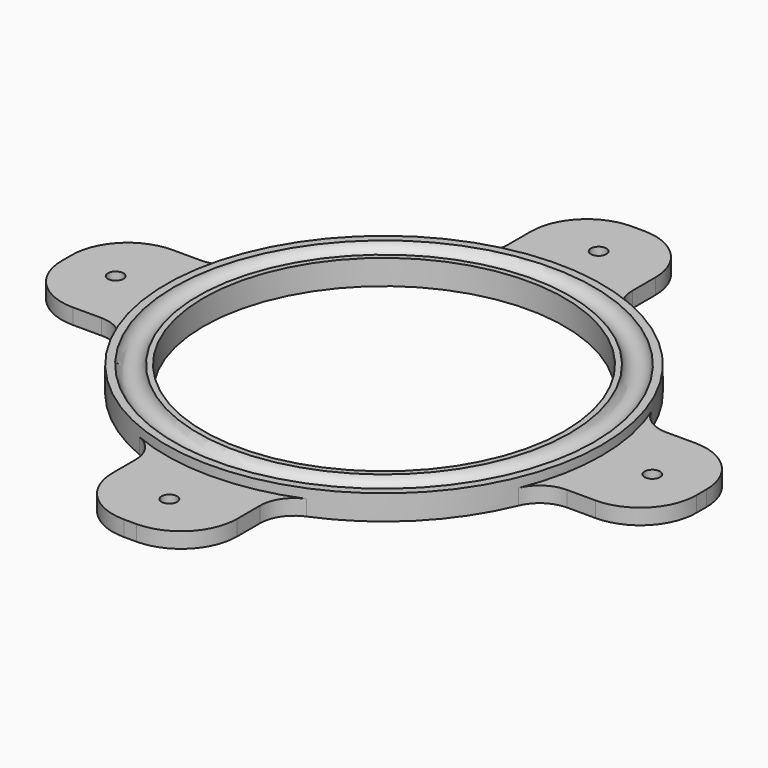
from build123d import *

# Parameters (mm, degrees)
SKETCH_R        = 70
SKETCH_R_2      = 57.25
PAD_DEPTH       = 15
SKETCH001_R     = 4
SKETCH002_W     = 40
SKETCH002_H     = 40
PAD001_DEPTH    = 5
SKETCH003_R     = 2.5
POCKET_DEPTH    = 5
FILLET_R        = 18
FILLET001_R     = 11
SKETCH004_R     = 58
POCKET001_DEPTH = 15.001
SKETCH005_R     = 71
POCKET002_DEPTH = 7
SKETCH006_R     = 4


with BuildPart() as part:
    # Sketch → Pad (new body)
    with BuildSketch(Plane.XY):
        Circle(SKETCH_R)
        Circle(SKETCH_R_2, mode=Mode.SUBTRACT)
    extrude(amount=PAD_DEPTH)

    # Sketch001 → Groove (revolve, cut)
    with BuildSketch(Plane.XZ):
        with Locations((63.625, 16)):
            Circle(SKETCH001_R)
    revolve(axis=Axis((0, 0, 0), (0, 0, 1)), mode=Mode.SUBTRACT)

    # Sketch002 (on Face2 of Groove) → Pad001 (join)
    with BuildSketch(Plane(origin=(0, 0, 0), x_dir=(1, 0, 0), z_dir=(0, 0, -1))):
        with Locations((82, 0)):
            Rectangle(SKETCH002_W, SKETCH002_H)
        with Locations((-82, 0)):
            Rectangle(SKETCH002_W, SKETCH002_H)
        with Locations((0, 82)):
            Rectangle(SKETCH002_W, SKETCH002_H)
        with Locations((0, -82)):
            Rectangle(SKETCH002_W, SKETCH002_H)
    extrude(amount=-PAD001_DEPTH)

    # Sketch003 (on Face13 of Pad001) → Pocket (cut)
    with BuildSketch(Plane.XY.offset(5)):
        with Locations((-86.25, 0)):
            Circle(SKETCH003_R)
        with Locations((0, -86.25)):
            Circle(SKETCH003_R)
        with Locations((86.25, 0)):
            Circle(SKETCH003_R)
        with Locations((0, 86.25)):
            Circle(SKETCH003_R)
    extrude(amount=-POCKET_DEPTH, mode=Mode.SUBTRACT)

    # Fillet
    fillet_edges = [part.edges().sort_by_distance(p)[0] for p in [
        (-20, 102, 2.5),
        (20, 102, 2.5),
        (102, 20, 2.5),
        (102, -20, 2.5),
        (20, -102, 2.5),
        (-20, -102, 2.5),
        (-102, -20, 2.5),
        (-102, 20, 2.5),
    ]]
    fillet(fillet_edges, radius=FILLET_R)

    # Fillet001
    fillet001_edges = [part.edges().sort_by_distance(p)[0] for p in [
        (67.082039, 20, 2.5),
        (20, 67.082039, 2.5),
        (-20, 67.082039, 2.5),
        (-67.082039, 20, 2.5),
        (-67.082039, -20, 2.5),
        (-20, -67.082039, 2.5),
        (20, -67.082039, 2.5),
        (67.082039, -20, 2.5),
    ]]
    fillet(fillet001_edges, radius=FILLET001_R)

    # Sketch004 (on Face41 of Fillet001) → Pocket001 (cut, through all)
    with BuildSketch(Plane.XY.offset(15)):
        Circle(SKETCH004_R)
    extrude(amount=-POCKET001_DEPTH, mode=Mode.SUBTRACT)

    # Sketch005 (on Face38 of Pocket001) → Pocket002 (cut)
    with BuildSketch(Plane.XY.offset(15)):
        Circle(SKETCH005_R)
    extrude(amount=-POCKET002_DEPTH, mode=Mode.SUBTRACT)

    # Sketch006 → Groove001 (revolve, cut)
    with BuildSketch(Plane.XZ):
        with Locations((63.625, 9)):
            Circle(SKETCH006_R)
    revolve(axis=Axis((0, 0, 0), (0, 0, 1)), mode=Mode.SUBTRACT)


solid = part.part
